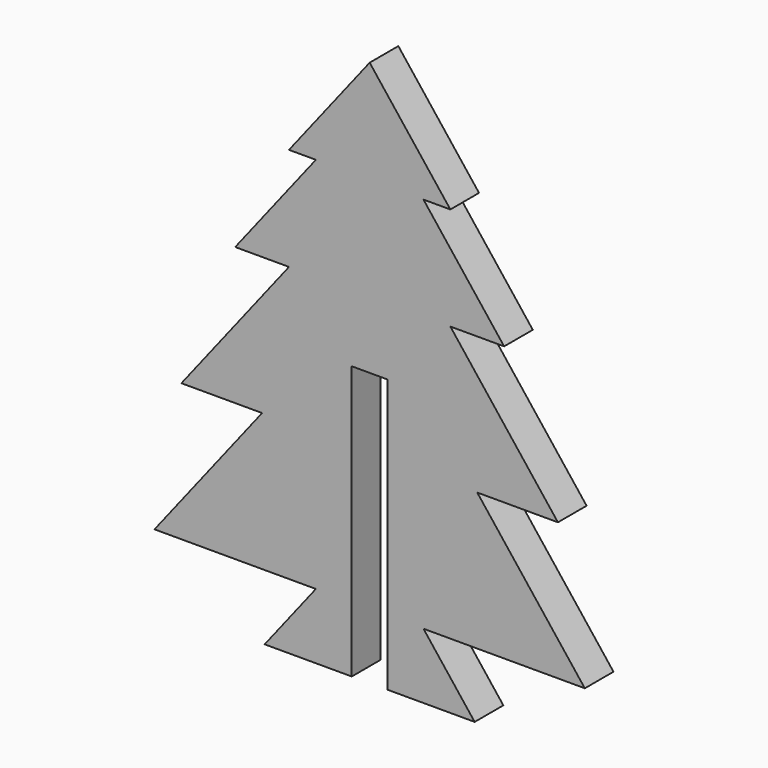
from build123d import *

# Parameters (mm, degrees)
F0_W     = 7.5035672322
F0_H     = 9.1249096662
F1_DEPTH = 5
F2_W     = 2.5
F2_H     = 38.1
F3_DEPTH = 25


with BuildPart() as f1:
    # F0 (on Front) → F1 (new body)
    with BuildSketch(Plane.XZ):
        Polygon((-45.4864123737, 48.2490742109), (-30.4792779093, 48.2490742109), (-26.7274942932, 48.2490742109), (-37.9828451415, 62.6223078539), (-49.2381959898, 48.2490742109), align=None)
        Polygon((-49.2381959898, 33.875840568), (-37.9828451415, 33.875840568), (-26.7274942932, 33.875840568), (-19.2239270611, 33.875840568), (-30.4792779093, 48.2490742109), (-45.4864123737, 48.2490742109), (-56.741763222, 33.875840568), align=None)
        Polygon((-52.9899796059, 14.711529044), (-37.9828451415, 14.711529044), (-37.9828451415, 33.875840568), (-49.2381959898, 33.875840568), (-64.2453304542, 14.711529044), align=None)
        Polygon((-37.9828451415, 33.875840568), (-37.9828451415, 14.711529044), (-22.9757106772, 14.711529044), (-11.7203598289, 14.711529044), (-26.7274942932, 33.875840568), align=None)
        Polygon((-45.4864123737, -4.4527824799), (-37.9828451415, -4.4527824799), (-37.9828451415, 14.711529044), (-52.9899796059, 14.711529044), (-67.9971140702, -4.4527824799), align=None)
        Polygon((-37.9828451415, 14.711529044), (-37.9828451415, -4.4527824799), (-30.4792779093, -4.4527824799), (-7.9685762128, -4.4527824799), (-22.9757106772, 14.711529044), align=None)
        Polygon((-52.631920636, -13.5776921461), (-45.4864123737, -13.5776921461), (-45.4864123737, -4.4527824799), align=None)
        with Locations((-41.7346287576, -9.015237313)):
            Rectangle(F0_W, F0_H)
        with Locations((-34.2310615254, -9.015237313)):
            Rectangle(F0_W, F0_H)
        Polygon((-30.4792779093, -4.4527824799), (-30.4792779093, -13.5776921461), (-23.333769647, -13.5776921461), align=None)
    extrude(amount=F1_DEPTH)

    # F2 (on face) → F3 (cut)
    with BuildSketch(Plane.XZ.offset(5)):
        with Locations((-39.2328451415, 5.4723078539)):
            Rectangle(F2_W, F2_H)
        with Locations((-36.7328451415, 5.4723078539)):
            Rectangle(F2_W, F2_H)
    extrude(amount=-F3_DEPTH, mode=Mode.SUBTRACT)


solid = f1.part
